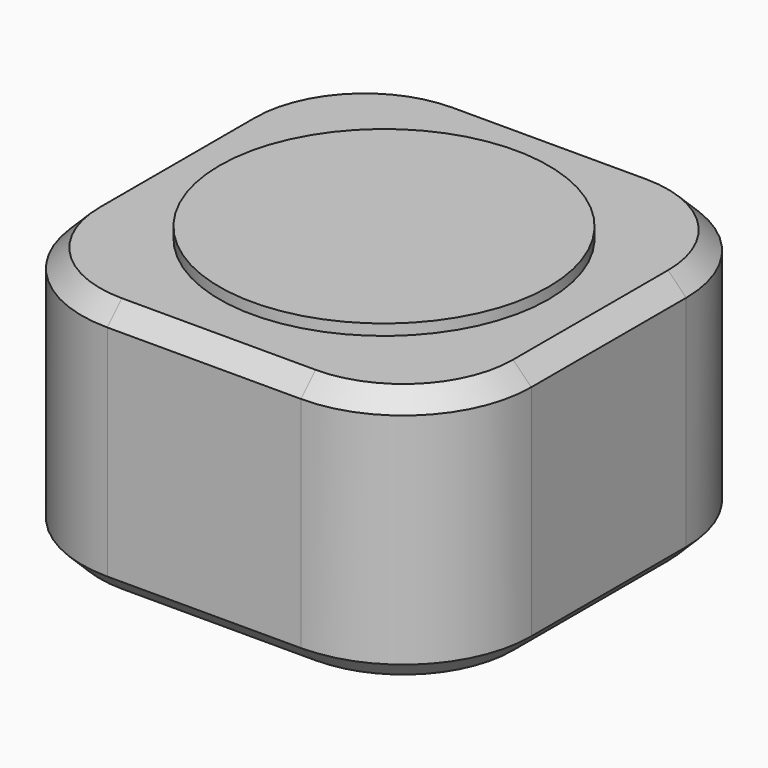
from build123d import *

# Parameters (mm, degrees)
SKETCH_W     = 12.3
SKETCH_H     = 12.3
PAD_DEPTH    = 7
FILLET_R     = 3.5
CHAMFER_SIZE = 0.5
SKETCH002_R  = 4.5
PAD002_DEPTH = 0.3


with BuildPart() as part:
    # Sketch → Pad (new body)
    with BuildSketch(Plane.XY.offset(0.5)):
        Rectangle(SKETCH_W, SKETCH_H)
    extrude(amount=PAD_DEPTH)

    # Fillet
    fillet_edges = [part.edges().sort_by_distance(p)[0] for p in [
        (6.15, 6.15, 4),
        (6.15, -6.15, 4),
        (-6.15, 6.15, 4),
        (-6.15, -6.15, 4),
    ]]
    fillet(fillet_edges, radius=FILLET_R)

    # Chamfer
    chamfer_edges = [part.edges().sort_by_distance(p)[0] for p in [
        (0, 6.15, 7.5),
        (-5.124874, 5.124874, 7.5),
        (5.124874, 5.124874, 7.5),
        (-6.15, 0, 7.5),
        (6.15, 0, 7.5),
        (-5.124874, -5.124874, 7.5),
        (5.124874, -5.124874, 7.5),
        (0, -6.15, 7.5),
        (0, 6.15, 0.5),
        (-5.124874, 5.124874, 0.5),
        (5.124874, 5.124874, 0.5),
        (-6.15, 0, 0.5),
        (6.15, 0, 0.5),
        (-5.124874, -5.124874, 0.5),
        (5.124874, -5.124874, 0.5),
        (0, -6.15, 0.5),
    ]]
    chamfer(chamfer_edges, length=CHAMFER_SIZE)

    # Sketch002 (on Face11 of Chamfer) → Pad002 (join)
    with BuildSketch(Plane.XY.offset(7.5)):
        Circle(SKETCH002_R)
    extrude(amount=PAD002_DEPTH)


solid = part.part
